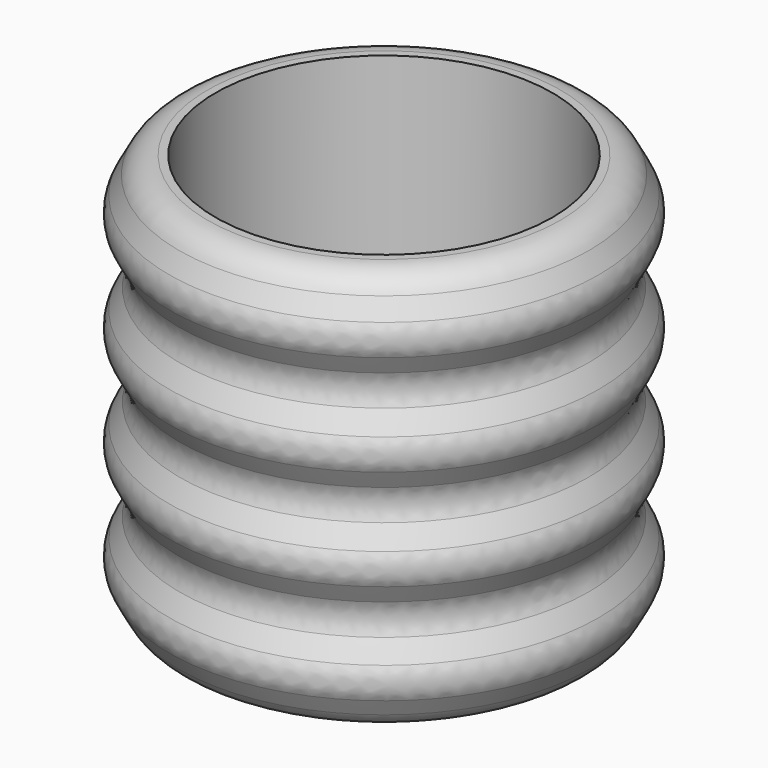
from build123d import *

# Parameters (mm, degrees)
F2_R = 5.08
F3_R = 5.08
F4_R = 5.08
F5_R = 5.08


with BuildPart() as f1:
    # F0 (on Front) → F1 (revolve)
    with BuildSketch(Plane.XZ):
        Polygon((-1.8734273035, 6.8740202114), (-1.8734273035, 0), (28.669198975, 0), (32.9361818731, 7.7723334543), (28.669198975, 15.6325679272), (32.9361818731, 23.4049013816), (28.669198975, 31.3530340791), (32.9361818731, 39.1253675334), (28.669198975, 47.0735058188), (32.9361818731, 54.8458392732), (28.669198975, 62.793970108), (24.4022123516, 62.793970108), (24.4022123516, 6.8740202114), align=None)
    revolve(axis=Axis((-1.8734273035, 0, 3.4370101057), (0, 0, -1)))

    # F2
    f2_edges = [f1.edges().sort_by_distance(p)[0] for p in [
        (-32.416054, 0, 62.79397),
        (-36.683036, 0, 54.845839),
        (30.80269, 0, 58.819905),
    ]]
    fillet(f2_edges, radius=F2_R)

    # F3
    f3_edges = [f1.edges().sort_by_distance(p)[0] for p in [
        (-36.683036, 0, 39.125368),
        (-32.416054, 0, 47.073506),
        (30.80269, 0, 43.099437),
        (-32.416054, 0, 31.353034),
        (30.80269, 0, 35.239201),
    ]]
    fillet(f3_edges, radius=F3_R)

    # F4
    f4_edges = [f1.edges().sort_by_distance(p)[0] for p in [
        (31.454954, 0, 26.163992),
        (-33.720581, 0, 28.923083),
        (-36.683036, 0, 23.404901),
        (-32.416054, 0, 15.632568),
        (30.80269, 0, 19.518735),
    ]]
    fillet(f4_edges, radius=F4_R)

    # F5
    f5_edges = [f1.edges().sort_by_distance(p)[0] for p in [
        (31.464247, 0, 10.483794),
        (-33.739166, 0, 13.195255),
        (-36.683036, 0, 7.772333),
        (-32.416054, 0, 0),
        (30.80269, 0, 3.886167),
    ]]
    fillet(f5_edges, radius=F5_R)


solid = f1.part
